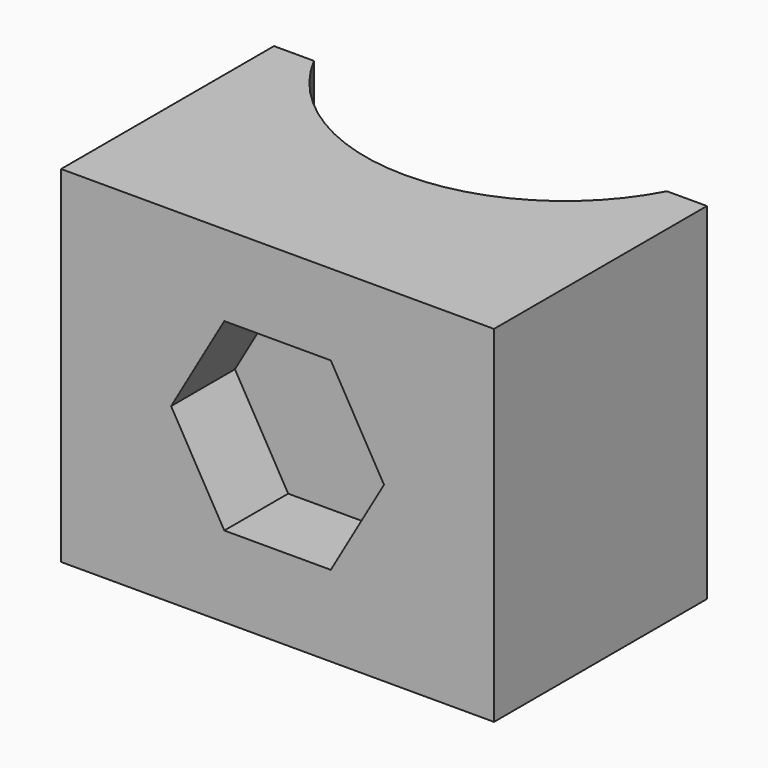
from build123d import *

# Parameters (mm, degrees)
PAD_DEPTH    = 26
POCKET_DEPTH = 6


with BuildPart() as part:
    # Sketch → Pad (new body)
    with BuildSketch(Plane.XY):
        with BuildLine():
            ThreePointArc((-13.266499, 20), (0, 12), (13.266499, 20))
            Line((13.266499, 20), (16.266499, 20))
            Line((16.266499, 20), (16.266499, 0))
            Line((-16.266499, 0), (16.266499, 0))
            Line((-16.266499, 20), (-16.266499, 0))
            Line((-13.266499, 20), (-16.266499, 20))
        make_face()
    extrude(amount=PAD_DEPTH)

    # Sketch001 → Pocket (cut)
    with BuildSketch(Plane.XZ):
        Polygon((4, 6.071797), (8, 13), (4, 19.928203), (-4, 19.928203), (-8, 13), (-4, 6.071797), align=None)
    extrude(amount=-POCKET_DEPTH, mode=Mode.SUBTRACT)


solid = part.part
